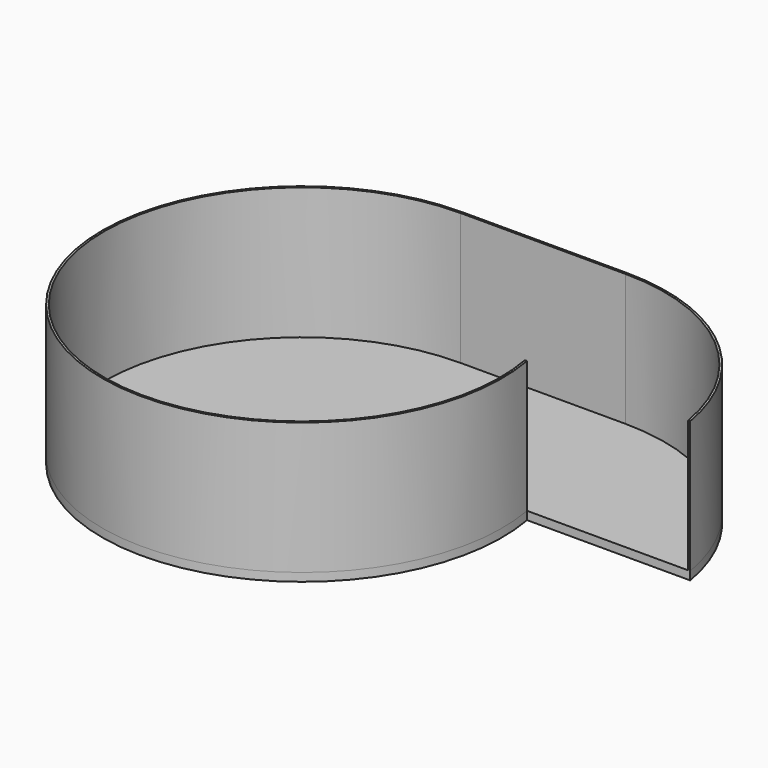
from build123d import *

# Parameters (mm, degrees)
F1_DEPTH = 6.35
F3_D     = 28.3972
F5_DEPTH = 101.6


with BuildPart() as f1:
    # F0 (on Top) → F1 (new body)
    with BuildSketch(Plane.XY):
        with BuildLine():
            Line((127, 153.9875), (0, 153.9875))
            ThreePointArc((0, 153.9875), (-98.884813, -118.042128), (151.604172, 26.9875))
            Line((151.604172, 26.9875), (277.268426, 26.9875))
            ThreePointArc((277.268426, 26.9875), (225.373777, 117.984923), (127, 153.9875))
        make_face()
    extrude(amount=F1_DEPTH)

    # F3 (through all)
    with Locations(Plane.XY.offset(6.35)):
        with Locations((0, 0)):
            Hole(F3_D / 2)


with BuildPart() as f5:
    # F4 (on face) → F5 (new body)
    with BuildSketch(Plane.XY.offset(6.35)):
        with BuildLine():
            ThreePointArc((149.991449, 26.9875), (-97.757007, -116.915899), (0, 152.4))
            Line((0, 152.4), (127, 152.4))
            ThreePointArc((127, 152.4), (224.246523, 116.859022), (275.658165, 26.9875))
            Line((275.658165, 26.9875), (277.268426, 26.9875))
            ThreePointArc((277.268426, 26.9875), (225.373777, 117.984923), (127, 153.9875))
            Line((127, 153.9875), (0, 153.9875))
            ThreePointArc((0, 153.9875), (-98.884813, -118.042128), (151.604172, 26.9875))
            Line((151.604172, 26.9875), (149.991449, 26.9875))
        make_face()
    extrude(amount=F5_DEPTH)


solid = Compound([f1.part, f5.part])
